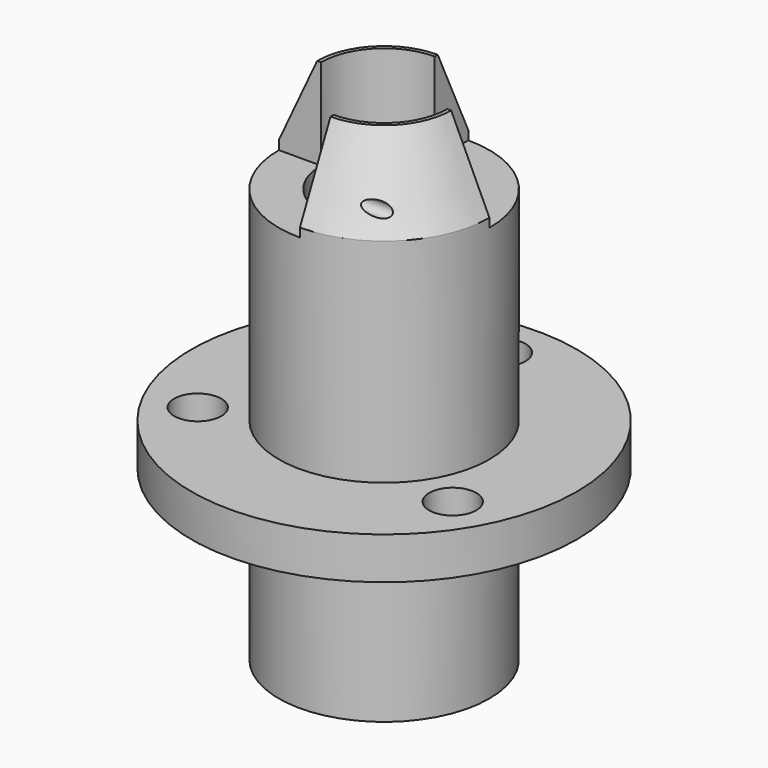
from build123d import *

# Parameters (mm, degrees)
F0_R          = 7.9375
F0_R_2        = 4.7625
F1_DEPTH      = 25.4
F1_DEPTH_BACK = 12.7
F3_DEPTH      = 6.858
F4_R          = 11.421726494
F4_R_2        = 5.0513257944
F5_DEPTH      = 7.8232
F5_TAPER      = 25
F6_R          = 14.5288
F6_R_2        = 4.7625
F7_DEPTH      = 3.175
F8_R          = 1.778
F9_DEPTH      = 15.876
F10_R         = 0.325628867
F11_DEPTH     = 25.4
F12_R         = 0.5092148408
F13_DEPTH     = 25.4


with BuildPart() as f1:
    # F0 (on Top) → F1 (new body, two sides)
    with BuildSketch(Plane.XY) as f1_sk:
        Circle(F0_R)
        Circle(F0_R_2, mode=Mode.SUBTRACT)
    extrude(amount=F1_DEPTH)
    extrude(f1_sk.sketch, amount=-F1_DEPTH_BACK)

    # F2 (on face) → F3 (cut)
    with BuildSketch(Plane.XY.offset(25.4)):
        with BuildLine():
            Line((-2.6014847011, 0), (-10.5939569366, 0))
            ThreePointArc((-10.5939569366, 0), (-7.4910587894, -7.4910587894), (0, -10.5939569366))
            Line((0, -10.5939569366), (0, -2.6014847011))
            ThreePointArc((0, -2.6014847011), (-1.8395274733, -1.8395274733), (-2.6014847011, 0))
        make_face()
        with BuildLine():
            ThreePointArc((0, 2.6014847011), (1.8395274733, 1.8395274733), (2.6014847011, 0))
            Line((2.6014847011, 0), (10.5939569366, 0))
            ThreePointArc((10.5939569366, 0), (7.4910587894, 7.4910587894), (0, 10.5939569366))
            Line((0, 10.5939569366), (0, 2.6014847011))
        make_face()
    extrude(amount=-F3_DEPTH, mode=Mode.SUBTRACT)

    # F4 (on face) → F5 (cut)
    with BuildSketch(Plane.XY.offset(25.4)):
        Circle(F4_R)
        Circle(F4_R_2, mode=Mode.SUBTRACT)
    extrude(amount=-F5_DEPTH, taper=F5_TAPER, mode=Mode.SUBTRACT)

    # F6 (on Top) → F7 (join)
    with BuildSketch(Plane.XY):
        Circle(F6_R)
        Circle(F6_R_2, mode=Mode.SUBTRACT)
    extrude(amount=F7_DEPTH)

    # F8 (on face) → F9 (cut, through all)
    with BuildSketch(Plane.XY.offset(3.175)):
        with Locations((0, 11.0998)):
            Circle(F8_R)
        with Locations((9.6127087769, -5.5499)):
            Circle(F8_R)
        with Locations((-9.6127087769, -5.5499)):
            Circle(F8_R)
    extrude(amount=-F9_DEPTH, mode=Mode.SUBTRACT)

    # F10 (on face) → F11 (cut)
    with BuildSketch(Plane.YZ):
        with Locations((5.7785, 20.9641065449)):
            Circle(F10_R)
    extrude(amount=-F11_DEPTH, mode=Mode.SUBTRACT)

    # F12 (on face) → F13 (cut)
    with BuildSketch(Plane(origin=(0, 0, 0), x_dir=(0, -1, 0), z_dir=(-1, 0, 0))):
        with Locations((5.7785, 20.9257006645)):
            Circle(F12_R)
    extrude(amount=-F13_DEPTH, mode=Mode.SUBTRACT)


solid = f1.part
